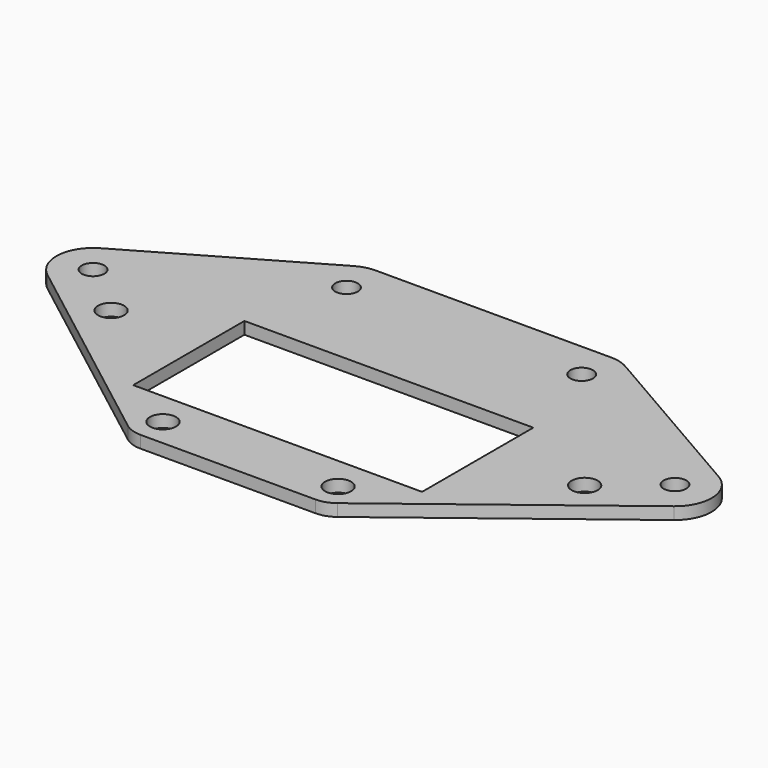
from build123d import *

# Parameters (mm, degrees)
F0_R     = 1.8288
F0_R_2   = 1.5875
F1_DEPTH = 1.70942


with BuildPart() as f1:
    # F0 (on Top) → F1 (new body)
    with BuildSketch(Plane.XY):
        with BuildLine():
            Line((16.542796, 28.167754), (-16.542796, 28.167754))
            ThreePointArc((-16.542796, 28.167754), (-17.87814, 27.991953), (-19.122483, 27.476529))
            Line((-19.122483, 27.476529), (-43.512482, 13.394956))
            ThreePointArc((-43.512482, 13.394956), (-46.081079, 9.264924), (-44.074702, 4.834427))
            Line((-44.074702, 4.834427), (-14.736982, -17.689484))
            ThreePointArc((-14.736982, -17.689484), (-13.596339, -18.299461), (-12.320131, -18.51025))
            Line((-12.320131, -18.51025), (12.320131, -18.51025))
            ThreePointArc((12.320131, -18.51025), (13.596339, -18.299461), (14.736982, -17.689484))
            Line((14.736982, -17.689484), (44.074702, 4.834427))
            ThreePointArc((44.074702, 4.834427), (46.081079, 9.264924), (43.512482, 13.394956))
            Line((43.512482, 13.394956), (19.122483, 27.476529))
            ThreePointArc((19.122483, 27.476529), (17.87814, 27.991953), (16.542796, 28.167754))
        make_face()
        with Locations((-12.320131, -14.5415)):
            Circle(F0_R, mode=Mode.SUBTRACT)
        with Locations((-33.310818, 2.574715)):
            Circle(F0_R, mode=Mode.SUBTRACT)
        Polygon((20.32, 1.016), (20.32, -1.016), (20.32, -9.779), (-20.32, -9.779), (-20.32, -1.016), (-20.32, 1.016), (-20.32, 9.779), (20.32, 9.779), align=None, mode=Mode.SUBTRACT)
        with Locations((12.320131, -14.5415)):
            Circle(F0_R, mode=Mode.SUBTRACT)
        with Locations((33.310818, 2.574715)):
            Circle(F0_R, mode=Mode.SUBTRACT)
        with Locations((-40.932795, 8.926807)):
            Circle(F0_R_2, mode=Mode.SUBTRACT)
        with Locations((-16.542796, 23.008379)):
            Circle(F0_R_2, mode=Mode.SUBTRACT)
        with Locations((40.932795, 8.926807)):
            Circle(F0_R_2, mode=Mode.SUBTRACT)
        with Locations((16.542796, 23.008379)):
            Circle(F0_R_2, mode=Mode.SUBTRACT)
    extrude(amount=F1_DEPTH)


solid = f1.part
